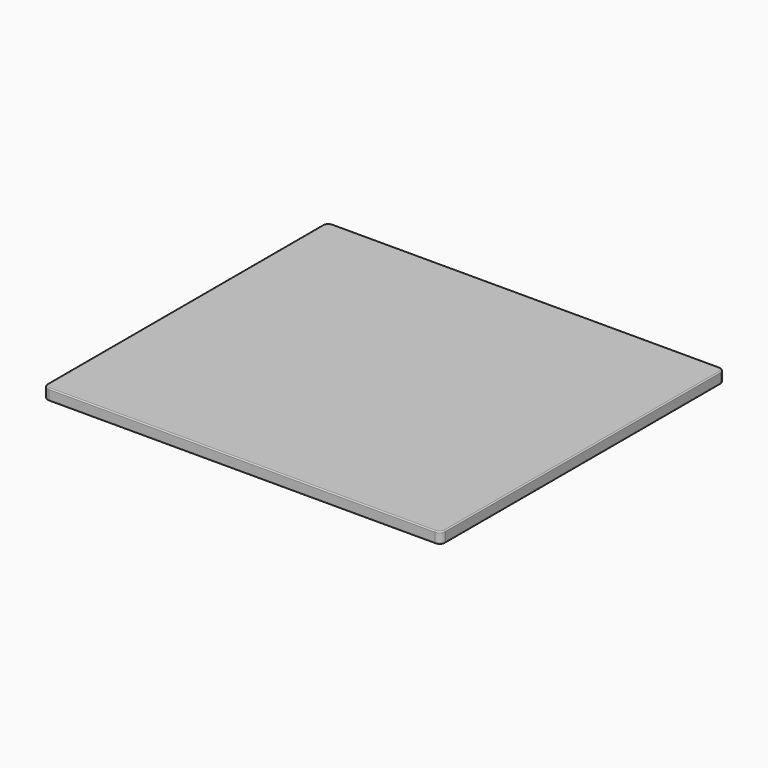
from build123d import *

# Parameters (mm, degrees)
F1_DEPTH = 10
F2_R     = 1


with BuildPart() as f1:
    # F0 (on Top) → F1 (new body)
    with BuildSketch(Plane.XY):
        with BuildLine():
            ThreePointArc((0, 5), (1.464466, 1.464466), (5, 0))
            Line((5, 0), (350, 0))
            ThreePointArc((350, 0), (353.535534, 1.464466), (355, 5))
            Line((355, 5), (355, 312))
            ThreePointArc((355, 312), (353.535534, 315.535534), (350, 317))
            Line((350, 317), (5, 317))
            ThreePointArc((5, 317), (1.464466, 315.535534), (0, 312))
            Line((0, 312), (0, 5))
        make_face()
    extrude(amount=F1_DEPTH)

    # F2
    f2_edges = [f1.edges().sort_by_distance(p)[0] for p in [
        (0, 158.5, 10),
        (1.464466, 1.464466, 10),
        (177.5, 0, 10),
        (353.535534, 1.464466, 10),
        (355, 158.5, 10),
        (353.535534, 315.535534, 10),
        (177.5, 317, 10),
        (1.464466, 315.535534, 10),
        (0, 158.5, 0),
        (1.464466, 1.464466, 0),
        (177.5, 0, 0),
        (353.535534, 1.464466, 0),
        (355, 158.5, 0),
        (353.535534, 315.535534, 0),
        (177.5, 317, 0),
        (1.464466, 315.535534, 0),
    ]]
    fillet(f2_edges, radius=F2_R)


solid = f1.part
